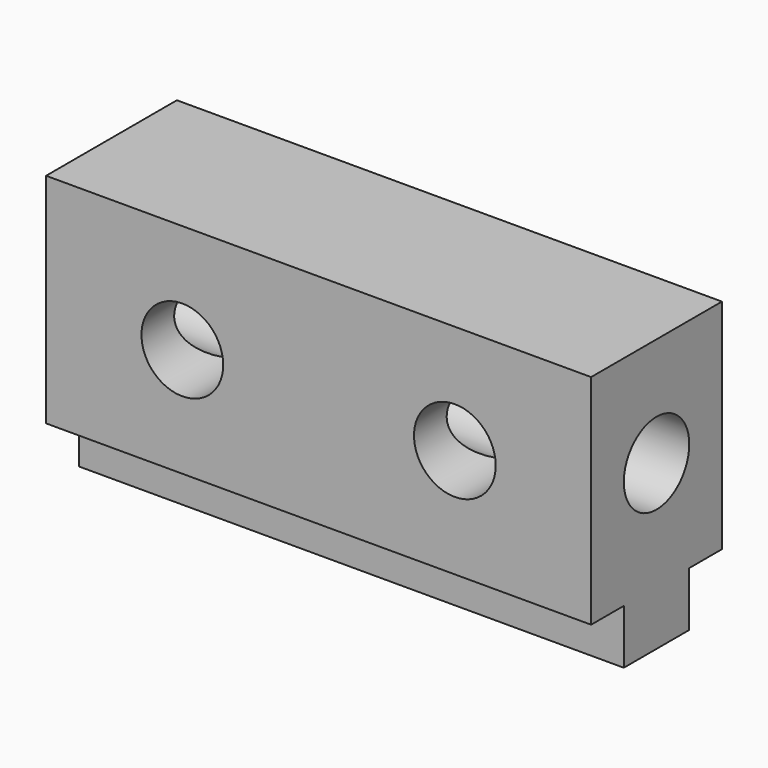
from build123d import *

# Parameters (mm, degrees)
F0_R     = 9.525
F1_DEPTH = 127
F2_R     = 9.525
F3_DEPTH = 38.101


with BuildPart() as f1:
    # F0 (on Right) → F1 (new body)
    with BuildSketch(Plane.YZ):
        Polygon((-7.540628, 12.898435), (-45.640628, 12.898435), (-45.640628, -37.901565), (-36.115628, -37.901565), (-36.115628, -50.601565), (-17.065628, -50.601565), (-17.065628, -37.901565), (-7.540628, -37.901565), align=None)
        with Locations((-26.590628, -12.501565)):
            Circle(F0_R, mode=Mode.SUBTRACT)
    extrude(amount=F1_DEPTH)

    # F2 (on face) → F3 (cut, through all)
    with BuildSketch(Plane.XZ.offset(45.640628)):
        with Locations((31.75, -12.501565)):
            Circle(F2_R)
        with Locations((95.25, -12.501565)):
            Circle(F2_R)
    extrude(amount=-F3_DEPTH, mode=Mode.SUBTRACT)


solid = f1.part
